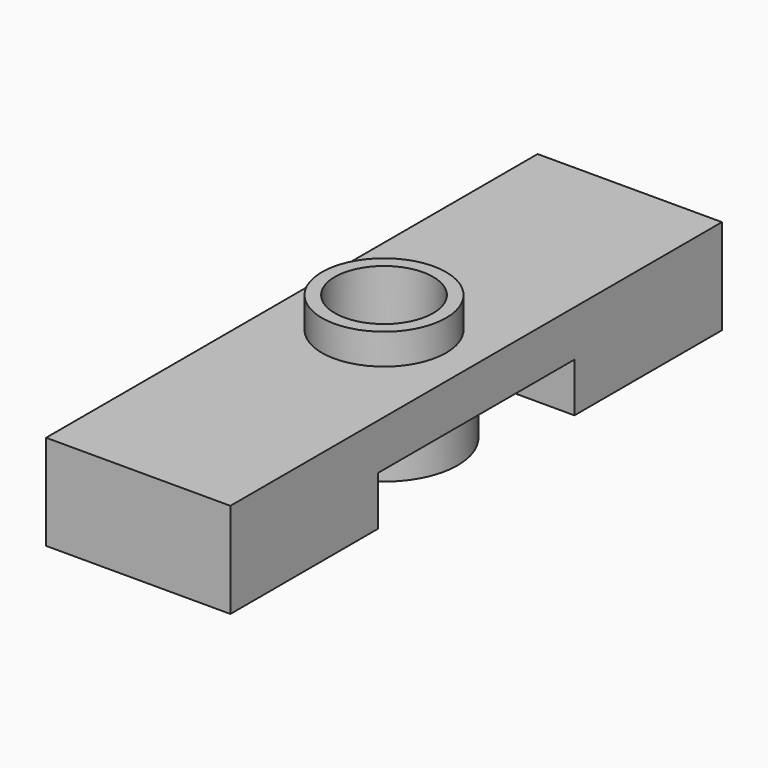
from build123d import *

# Parameters (mm, degrees)
F1_DEPTH = 60
F2_R     = 16
F3_DEPTH = 25
F4_R     = 20.225
F4_R_2   = 16
F5_DEPTH = 10
F6_R     = 24
F6_R_2   = 16
F7_DEPTH = 16


with BuildPart() as f1:
    # F0 (on Right) → F1 (new body)
    with BuildSketch(Plane.YZ):
        Polygon((-100, 31), (-100, 0), (-40, 0), (-40, 16), (0, 16), (40, 16), (40, 0), (100, 0), (100, 31), align=None)
    extrude(amount=F1_DEPTH)

    # F2 (on face) → F3 (cut)
    with BuildSketch(Plane.XY.offset(31)):
        with Locations((30, 0)):
            Circle(F2_R)
    extrude(amount=-F3_DEPTH, mode=Mode.SUBTRACT)

    # F4 (on face) → F5 (join)
    with BuildSketch(Plane.XY.offset(31)):
        with Locations((30, 0)):
            Circle(F4_R)
        with Locations((30, 0)):
            Circle(F4_R_2, mode=Mode.SUBTRACT)
    extrude(amount=F5_DEPTH)

    # F6 (on face) → F7 (join)
    with BuildSketch(Plane(origin=(0, 0, 16), x_dir=(1, 0, 0), z_dir=(0, 0, -1))):
        with Locations((30, 0)):
            Circle(F6_R)
        with Locations((30, 0)):
            Circle(F6_R_2, mode=Mode.SUBTRACT)
    extrude(amount=F7_DEPTH)


solid = f1.part
